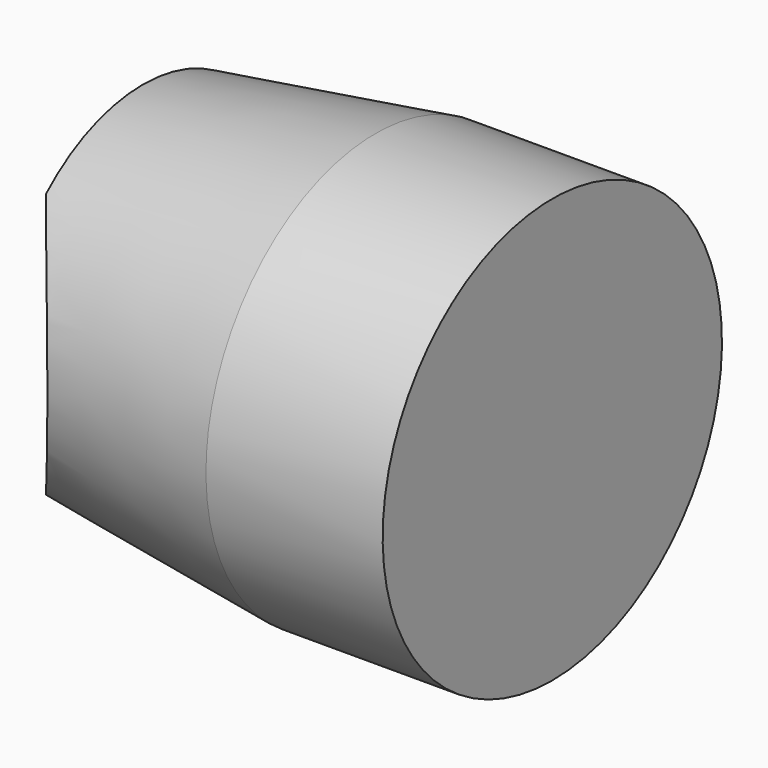
from build123d import *

# Parameters (mm, degrees)
TORUS020_R              = 3.05
CONE003_PITCH_ANGLE     = 90
CYLINDER801_R           = 3.6
CYLINDER801_DEPTH       = 3
CYLINDER801_PITCH_ANGLE = 90
BOX179_W                = 16
BOX179_H                = 10
BOX179_DEPTH            = 10


with BuildPart() as torus:
    # Torus020 → Torus020 (revolve)
    with BuildSketch(Plane(origin=(0, 0, 1), x_dir=(1, 0, 0), z_dir=(0, -1, 0))):
        with Locations((35, 0)):
            Circle(TORUS020_R)
    revolve(axis=Axis((0, 0, 1), (0, 0, 1)))


with BuildPart() as cone:
    # Cone003 → Cone003 (revolve)
    with BuildSketch(Plane.XZ):
        Polygon((0, 0), (2.9, 0), (3.6, 5), (0, 5), align=None)
    revolve(axis=Axis((0, 0, 0), (0, 0, 1)))


with BuildPart() as cone_1:
    # Cone003 pitch: moved
    add(cone.part.rotate(Axis((0, 0, 0), (0, 1, 0)), CONE003_PITCH_ANGLE))


with BuildPart() as cone_2:
    # Cone003 placement: moved
    add(cone_1.part.moved(Location((34.95, 0, 0))))


with BuildPart() as cut:
    # Cylinder801 → Cylinder801 (new body)
    with BuildSketch(Plane.XY):
        Circle(CYLINDER801_R)
    extrude(amount=CYLINDER801_DEPTH)


with BuildPart() as cut_1:
    # Cylinder801 pitch: moved
    add(cut.part.rotate(Axis((0, 0, 0), (0, 1, 0)), CYLINDER801_PITCH_ANGLE))


with BuildPart() as cut_2:
    # Cylinder801 placement: moved
    add(cut_1.part.moved(Location((39.95, 0, 0))))

    # Fusion611: union Cone
    add(cone_2.part)


with BuildPart() as cut_3:
    # Fusion611 placement: moved
    add(cut_2.part.moved(Location((1, 0, 1))))

    # Cut066379: cut Torus
    add(torus.part, mode=Mode.SUBTRACT)


with BuildPart() as obj1:
    # Box179 → Box179 (new body)
    with BuildSketch(Plane(origin=(37, -5, -3), x_dir=(1, 0, 0), z_dir=(0, 0, 1))):
        with Locations((8, 5)):
            Rectangle(BOX179_W, BOX179_H)
    extrude(amount=BOX179_DEPTH)

    # Common053: intersect Cut
    add(cut_3.part, mode=Mode.INTERSECT)


with BuildPart() as obj1_1:
    # Common053 placement: moved
    add(obj1.part.moved(Location((0, 0, -1))))


solid = obj1_1.part
